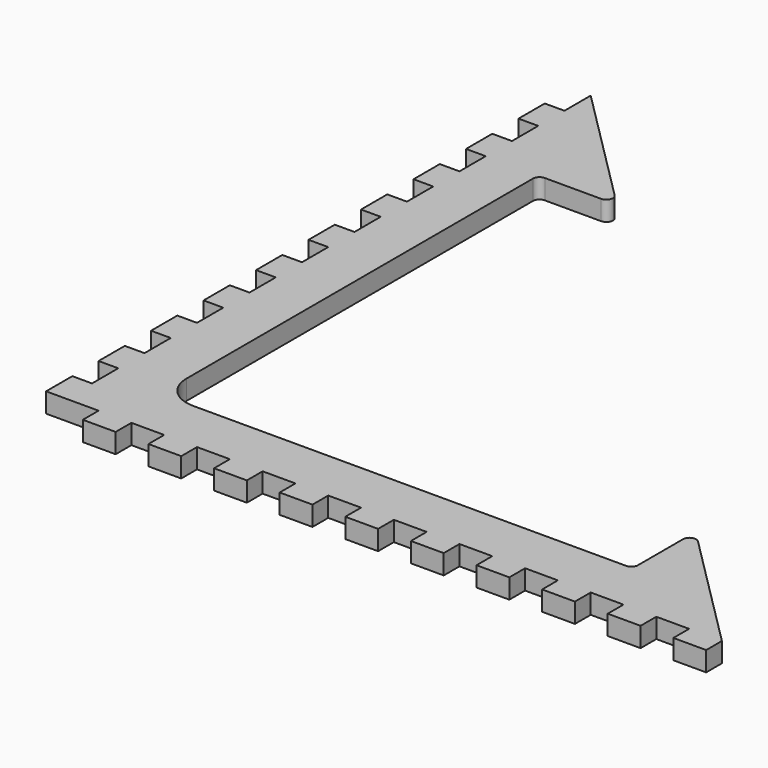
from build123d import *

# Parameters (mm, degrees)
F1_DEPTH = 3
F3_W     = 3
F3_H     = 5
F2_W     = 5
F2_H     = 3
F4_DEPTH = 3
F5_R     = 1
F6_R     = 5


with BuildPart() as f1:
    # F0 (on Top) → F1 (new body)
    with BuildSketch(Plane.XY):
        Polygon((20, 80), (0, 100), (0, 0), (100, 0), (80, 20), (80, 8), (8, 8), (8, 80), align=None)
    extrude(amount=F1_DEPTH)

    # F3 (on face) + F2 (on face) → F4 (join)
    with BuildSketch(Plane.XY.offset(3)):
        with Locations((-1.5, 42.5)):
            Rectangle(F3_W, F3_H)
        with Locations((-1.5, 32.5)):
            Rectangle(F3_W, F3_H)
        with Locations((-1.5, 22.5)):
            Rectangle(F3_W, F3_H)
        with Locations((-1.5, 12.5)):
            Rectangle(F3_W, F3_H)
        with Locations((-1.5, 2.5)):
            Rectangle(F3_W, F3_H)
        with Locations((-1.5, 52.5)):
            Rectangle(F3_W, F3_H)
        with Locations((-1.5, 2.5)):
            Rectangle(F3_W, F3_H)
        with Locations((-1.5, 72.5)):
            Rectangle(F3_W, F3_H)
        with Locations((-1.5, 82.5)):
            Rectangle(F3_W, F3_H)
        with Locations((-1.5, 92.5)):
            Rectangle(F3_W, F3_H)
        with Locations((-1.5, 62.5)):
            Rectangle(F3_W, F3_H)
    with BuildSketch(Plane.XY.offset(3)):
        with Locations((7.5, -1.5)):
            Rectangle(F2_W, F2_H)
        with Locations((17.5, -1.5)):
            Rectangle(F2_W, F2_H)
        with Locations((27.5, -1.5)):
            Rectangle(F2_W, F2_H)
        with Locations((37.5, -1.5)):
            Rectangle(F2_W, F2_H)
        with Locations((47.5, -1.5)):
            Rectangle(F2_W, F2_H)
        with Locations((57.5, -1.5)):
            Rectangle(F2_W, F2_H)
        with Locations((67.5, -1.5)):
            Rectangle(F2_W, F2_H)
        with Locations((77.5, -1.5)):
            Rectangle(F2_W, F2_H)
        with Locations((87.5, -1.5)):
            Rectangle(F2_W, F2_H)
        with Locations((97.5, -1.5)):
            Rectangle(F2_W, F2_H)
    extrude(amount=-F4_DEPTH)

    # F5
    f5_edges = [f1.edges().sort_by_distance(p)[0] for p in [
        (80, 20, 1.5),
        (8, 80, 1.5),
        (20, 80, 1.5),
        (80, 8, 1.5),
    ]]
    fillet(f5_edges, radius=F5_R)

    # F6
    f6_edges = [f1.edges().sort_by_distance(p)[0] for p in [
        (8, 8, 1.5),
    ]]
    fillet(f6_edges, radius=F6_R)


solid = f1.part
